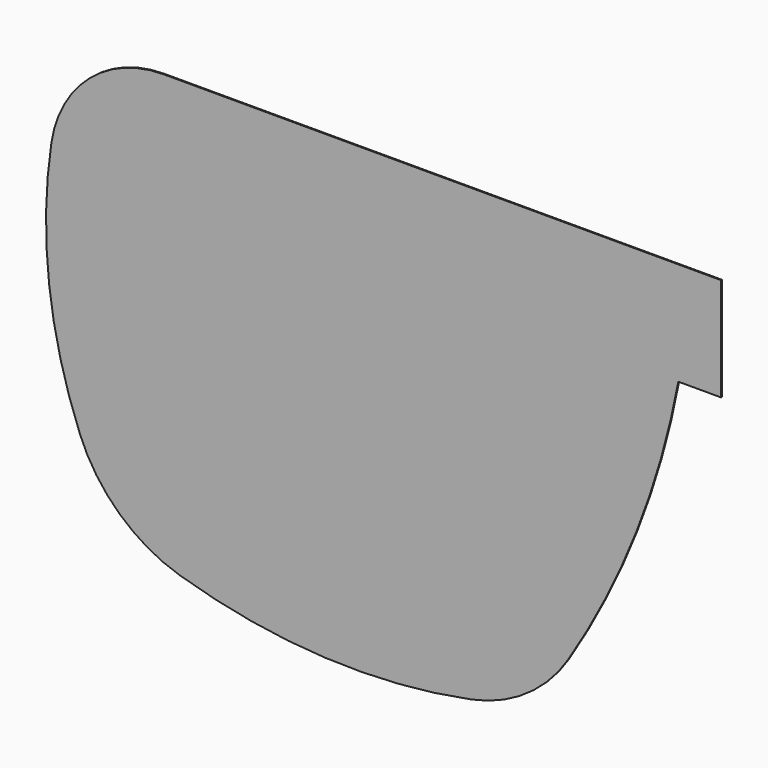
from build123d import *

# Parameters (mm, degrees)
F1_DEPTH = 0.1


with BuildPart() as f1:
    # F0 (on Front) → F1 (new body)
    with BuildSketch(Plane.XZ):
        with BuildLine():
            ThreePointArc((-56, -2), (-63.167039, -4.655328), (-66.873925, -11.339354))
            ThreePointArc((-66.873925, -11.339354), (-67.098581, -23.520382), (-64.110749, -35.331427))
            ThreePointArc((-64.110749, -35.331427), (-60.281606, -40.876074), (-54.431857, -44.220605))
            ThreePointArc((-54.431857, -44.220605), (-40.395564, -46.669439), (-26.185783, -45.622329))
            ThreePointArc((-26.185783, -45.622329), (-20.840447, -43.365146), (-16.819916, -39.181508))
            ThreePointArc((-16.819916, -39.181508), (-10.197054, -26.094991), (-6.141136, -12))
            Line((-6.141136, -12), (-2, -12))
            Line((-2, -12), (-2, -2))
            Line((-2, -2), (-56, -2))
        make_face()
    extrude(amount=-F1_DEPTH)


solid = f1.part
